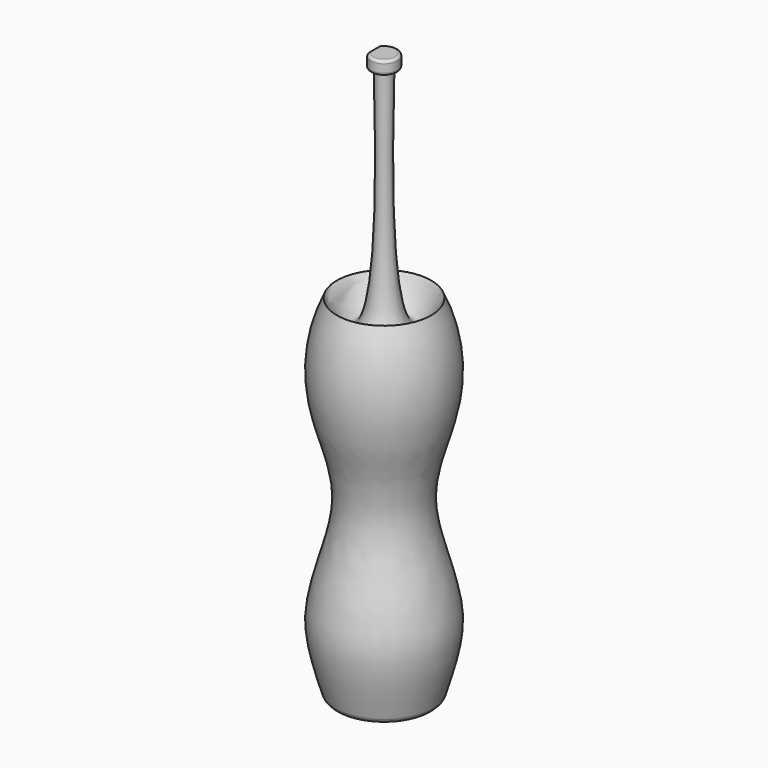
from build123d import *

# Parameters (mm, degrees)
F2_R     = 2.54
F3_R     = 1
F4_W     = 19.7092390154
F4_H     = 15.7092064619
F5_DEPTH = 22.4


with BuildPart() as f1:
    # F0 (on Front) → F1 (revolve)
    with BuildSketch(Plane.XZ):
        with BuildLine():
            Line((0, 130), (0, 0))
            Line((0, 0), (17.5, 0))
            add(Edge.make_bspline(
                [(17.5, 130), (22.5, 119.6596379665), (24.4853151406, 100.3614181833), (17.1932288242, 80.5399245506), (13.9866485718, 64.883493419), (17.1932288242, 49.9643932696), (24.4853151406, 27.3672993347), (22.5, 16.2580761236), (17.5, 0)],
                knots=[0, 0, 0, 0, 0.1975961429, 0.3602784274, 0.5, 0.6397215726, 0.8024038571, 1, 1, 1, 1], degree=3))
            add(Edge.make_bspline(
                [(3, 205), (1.2158900885, 130), (5.5774394423, 104.8566326499), (17.5, 130)],
                knots=[0, 0, 0, 0, 76.3888080808, 76.3888080808, 76.3888080808, 76.3888080808], degree=3))
            Line((3, 205), (0, 205))
            Line((0, 205), (0, 130))
        make_face()
        Polygon((0, 210), (0, 205), (3, 205), (5, 205), (5, 210), align=None)
    revolve(axis=Axis((0, 0, 65), (0, 0, 1)))

    # F2
    f2_edges = [f1.edges().sort_by_distance(p)[0] for p in [
        (-17.5, 0, 0),
    ]]
    fillet(f2_edges, radius=F2_R)

    # F3
    f3_edges = [f1.edges().sort_by_distance(p)[0] for p in [
        (-5, 0, 205),
        (-5, 0, 210),
    ]]
    fillet(f3_edges, radius=F3_R)

    # F4 (on Front) → F5 (cut, symmetric)
    with BuildSketch(Plane.XZ):
        with Locations((-13.3473322494, 209.7727283835)):
            Rectangle(F4_W, F4_H)
    extrude(amount=F5_DEPTH, both=True, mode=Mode.SUBTRACT)


solid = f1.part
